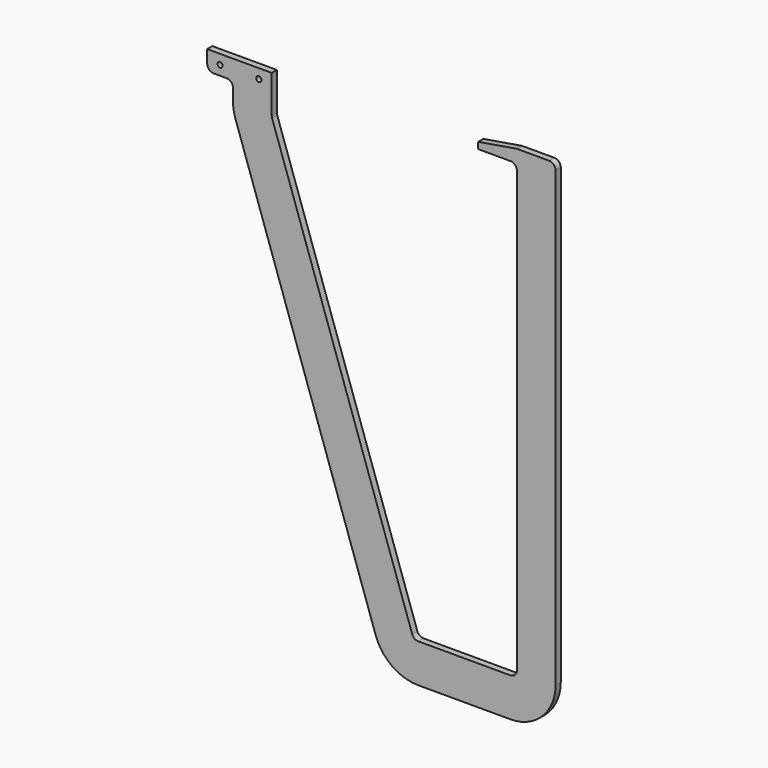
from build123d import *

# Parameters (mm, degrees)
F1_DEPTH      = 2.5
F2_R          = 5
F3_R          = 35
F4_R          = 2
F5_DEPTH      = 2.5
F5_DEPTH_BACK = 2.5


with BuildPart() as f1:
    # F0 (on Front) → F1 (new body, symmetric)
    with BuildSketch(Plane.XZ):
        Polygon((-30, 0), (0, 0), (0, -350.8333333333), (-80, -350.8333333333), (-190, -30), (-190, 0), (-240, 0), (-240, -15), (-220, -15), (-220, -35), (-101.4285714286, -380.8333333333), (30, -380.8333333333), (30, 10), (0, 10), (-30, 5), align=None)
    extrude(amount=F1_DEPTH, both=True)

    # F2
    f2_edges = [f1.edges().sort_by_distance(p)[0] for p in [
        (-240, 0, -15),
        (-220, 0, -15),
        (30, 0, 10),
        (0, 0, 10),
        (0, 0, 0),
        (0, 0, -350.833333),
        (-80, 0, -350.833333),
        (-190, 0, -30),
    ]]
    fillet(f2_edges, radius=F2_R)

    # F3
    f3_edges = [f1.edges().sort_by_distance(p)[0] for p in [
        (-220, 0, -35),
        (-101.428571, 0, -380.833333),
        (30, 0, -380.833333),
    ]]
    fillet(f3_edges, radius=F3_R)

    # F4 (on Front) → F5 (cut, two sides)
    with BuildSketch(Plane.XZ) as f5_sk:
        with Locations((-230, -7.5)):
            Circle(F4_R)
        with Locations((-200, -7.5)):
            Circle(F4_R)
    extrude(amount=F5_DEPTH, mode=Mode.SUBTRACT)
    extrude(f5_sk.sketch, amount=-F5_DEPTH_BACK, mode=Mode.SUBTRACT)


solid = f1.part
